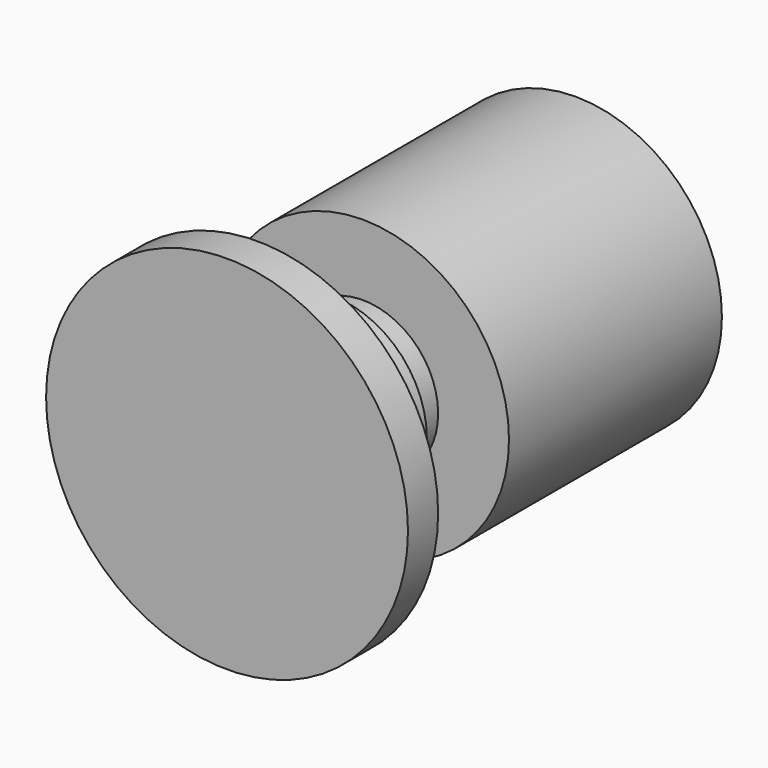
from build123d import *


with BuildPart() as part:
    # Sketch → Revolve (revolve)
    with BuildSketch(Plane.XY):
        Polygon((0, 28.9), (0, -28.9), (24, -28.9), (24, -23.9), (12.5, -23.9), (12.5, -11.4), (10, -11.4), (10, -6.4), (19.4, -6.4), (19.4, 28.9), align=None)
    revolve(axis=Axis((0, 0, 0), (0, 1, 0)))


solid = part.part
